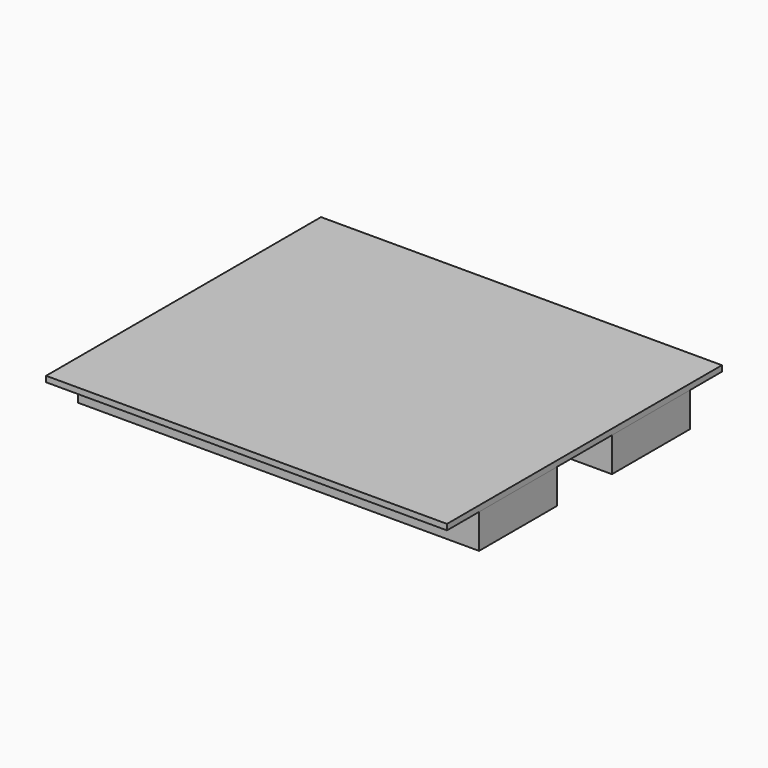
from build123d import *

# Parameters (mm, degrees)
F0_W     = 350
F0_H     = 300
F1_DEPTH = 5
F3_DEPTH = 30


with BuildPart() as f1:
    # F0 (on Top) → F1 (new body)
    with BuildSketch(Plane.XY):
        Rectangle(F0_W, F0_H)
    extrude(amount=F1_DEPTH)

    # F2 (on face) → F3 (join)
    with BuildSketch(Plane(origin=(0, 0, 0), x_dir=(1, 0, 0), z_dir=(0, 0, -1))):
        Polygon((175.000007, 30), (175, 115), (-175, 115), (-174.999993, 30), align=None)
        Polygon((-175, -115), (175, -115), (174.999993, -30), (-175.000007, -30), align=None)
    extrude(amount=F3_DEPTH)


solid = f1.part
